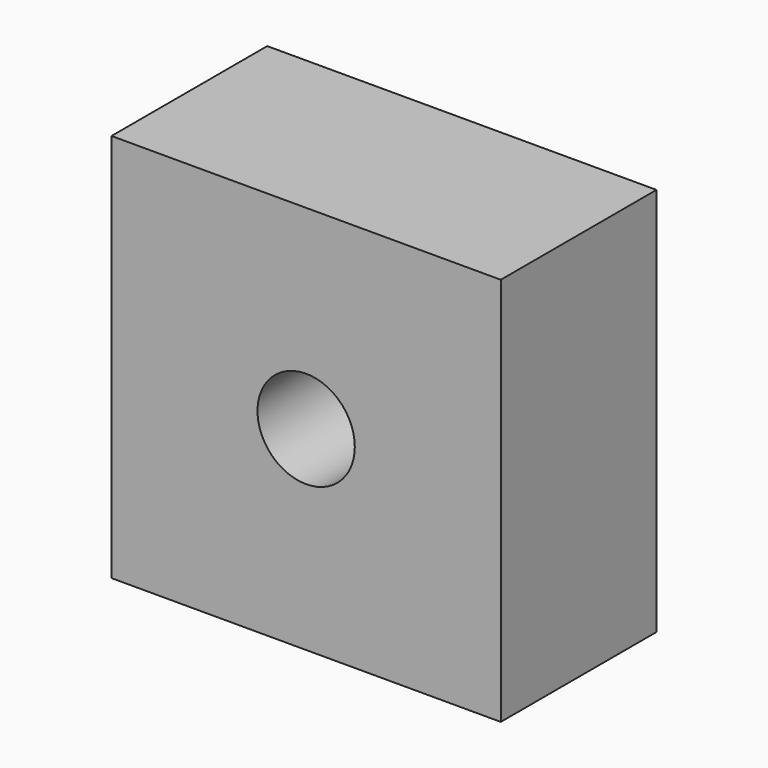
from build123d import *

# Parameters (mm, degrees)
F0_W     = 50.8
F0_H     = 50.8
F0_R     = 6.35
F1_DEPTH = 4.7625
F2_DEPTH = 25.4


with BuildPart() as f1:
    # F0 (on Front) → F1 (new body)
    with BuildSketch(Plane.XZ):
        with Locations((-2.255159, 13.25747)):
            Rectangle(F0_W, F0_H)
        with Locations((-2.255159, 13.25747)):
            Circle(F0_R, mode=Mode.SUBTRACT)
    extrude(amount=F1_DEPTH)


with BuildPart() as f2:
    # F0 (on Front) → F2 (new body)
    with BuildSketch(Plane.XZ):
        with Locations((-2.255159, 13.25747)):
            Rectangle(F0_W, F0_H)
        with Locations((-2.255159, 13.25747)):
            Circle(F0_R, mode=Mode.SUBTRACT)
    extrude(amount=F2_DEPTH)


solid = Compound([f1.part, f2.part])
